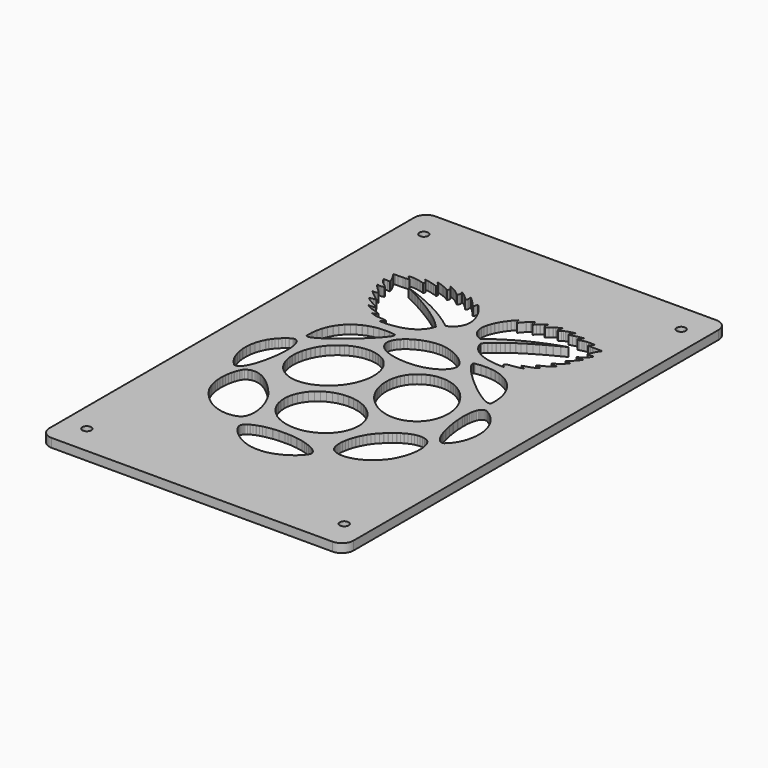
from build123d import *

# Parameters (mm, degrees)
F0_R     = 1.499796
F1_DEPTH = 3


with BuildPart() as f1:
    # F0 (on Top) → F1 (new body)
    with BuildSketch(Plane.XY):
        with BuildLine():
            Line((-48, -82), (48, -82))
            ThreePointArc((48, -82), (50.828427, -80.828427), (52, -78))
            Line((52, -78), (52, 78))
            ThreePointArc((52, 78), (50.828427, 80.828427), (48, 82))
            Line((48, 82), (-48, 82))
            ThreePointArc((-48, 82), (-50.828427, 80.828427), (-52, 78))
            Line((-52, 78), (-52, -78))
            ThreePointArc((-52, -78), (-50.828427, -80.828427), (-48, -82))
        make_face()
        with Locations((-44, -72)):
            Circle(F0_R, mode=Mode.SUBTRACT)
        Polygon((-13.309771, -44.983662), (-13.308247, -44.973756), (-13.271163, -44.756078), (-13.196741, -44.532812), (-13.192677, -44.524684), (-13.188359, -44.514778), (-13.082187, -44.305482), (-13.071265, -44.288972), (-12.933597, -44.083486), (-12.765449, -43.883588), (-12.750209, -43.866062), (-12.552851, -43.671498), (-12.535325, -43.654988), (-12.058313, -43.280084), (-12.037993, -43.263828), (-11.460397, -42.912038), (-11.410613, -42.882066), (-10.744879, -42.553898), (-10.687221, -42.52926), (-9.944525, -42.227254), (-9.878231, -42.203886), (-9.070765, -41.929566), (-8.206657, -41.685726), (-8.135029, -41.666422), (-7.228503, -41.454332), (-7.152557, -41.439092), (-5.252129, -41.116766), (-5.173897, -41.10559), (-5.095157, -41.097462), (-3.154851, -40.92525), (-3.076365, -40.920932), (-1.187113, -40.91255), (-1.080941, -40.91255), (-0.109391, -40.900104), (-0.069513, -40.901628), (0.914229, -40.940236), (1.019131, -40.949888), (3.051893, -41.173154), (3.158065, -41.189664), (5.186509, -41.587936), (5.288363, -41.612828), (6.265247, -41.870384), (6.334335, -41.889688), (7.268547, -42.183312), (7.332047, -42.206426), (8.208347, -42.5318), (9.014543, -42.885876), (9.072455, -42.912038), (9.791783, -43.292784), (9.842837, -43.321486), (10.462851, -43.726616), (10.504253, -43.756842), (11.011237, -44.1828), (11.027747, -44.19804), (11.234503, -44.418512), (11.248473, -44.435022), (11.421955, -44.659812), (11.432877, -44.675814), (11.570799, -44.903398), (11.579181, -44.920162), (11.679765, -45.152826), (11.682305, -45.160954), (11.744535, -45.39565), (11.745805, -45.403778), (11.747075, -45.413176), (11.769173, -45.650412), (11.769173, -45.666922), (11.751393, -45.855644), (11.749869, -45.864026), (11.699069, -46.069512), (11.693481, -46.087038), (11.609407, -46.309034), (11.599755, -46.328338), (11.483931, -46.56405), (11.471485, -46.584878), (11.149159, -47.091862), (11.132649, -47.11396), (10.698563, -47.657012), (10.677735, -47.680126), (10.139001, -48.24934), (10.090741, -48.2976), (9.455487, -48.87926), (9.399099, -48.927266), (8.675453, -49.507656), (8.610683, -49.554392), (7.810075, -50.123606), (6.938093, -50.666404), (6.865957, -50.7106), (5.933269, -51.216314), (5.854529, -51.256192), (4.870787, -51.712376), (4.786713, -51.74565), (3.758775, -52.139604), (2.696293, -52.45939), (2.609425, -52.484028), (1.519257, -52.715676), (1.429849, -52.730662), (0.323425, -52.862742), (0.266529, -52.86579), (-0.882313, -52.886364), (-0.932097, -52.886364), (-2.009819, -52.86579), (-2.059349, -52.861726), (-3.132753, -52.728122), (-3.182537, -52.72101), (-4.243749, -52.485298), (-4.293025, -52.474376), (-5.330869, -52.149256), (-5.427135, -52.117506), (-6.434753, -51.7139), (-6.525685, -51.671228), (-7.491647, -51.201328), (-8.410619, -50.674532), (-8.481231, -50.633384), (-9.341021, -50.0629), (-9.405791, -50.017434), (-10.199541, -49.4152), (-10.257453, -49.36694), (-10.973987, -48.744132), (-11.023771, -48.694348), (-11.654707, -48.061888), (-12.190647, -47.432222), (-12.232049, -47.382438), (-12.664865, -46.766488), (-12.695091, -46.718482), (-13.016147, -46.12717), (-13.027069, -46.105072), (-13.142893, -45.82237), (-13.151275, -45.800526), (-13.235349, -45.529), (-13.239413, -45.508426), (-13.290213, -45.248076), (-13.291737, -45.2369), align=None, mode=Mode.SUBTRACT)
        Polygon((-33.641201, 3.13359), (-33.630279, 3.136384), (-33.378057, 3.187184), (-33.366881, 3.188708), (-33.128629, 3.205218), (-33.117453, 3.205218), (-33.109325, 3.203694), (-32.881741, 3.18566), (-32.873613, 3.183374), (-32.660253, 3.130796), (-32.650347, 3.128002), (-32.642219, 3.125462), (-32.440797, 3.03961), (-32.432669, 3.0358), (-32.245471, 2.918706), (-32.236835, 2.914388), (-32.230231, 2.90753), (-32.053701, 2.76148), (-32.039985, 2.747764), (-31.875901, 2.571234), (-31.722993, 2.368796), (-31.710547, 2.350762), (-31.570085, 2.122162), (-31.558909, 2.101334), (-31.312275, 1.566918), (-31.294241, 1.518658), (-31.091803, 0.891786), (-31.078087, 0.833366), (-30.918321, 0.123944), (-30.799703, -0.658884), (-30.791575, -0.726194), (-30.712835, -1.572522), (-30.708771, -1.64542), (-30.668893, -2.547882), (-30.668893, -2.625098), (-30.666099, -3.573534), (-30.668893, -3.65456), (-30.767953, -5.648714), (-30.775065, -5.732788), (-31.003665, -7.796792), (-31.014841, -7.882644), (-31.027287, -7.967988), (-31.372981, -10.026912), (-31.389491, -10.109462), (-31.840087, -12.089392), (-31.859391, -12.169656), (-31.881743, -12.245348), (-32.426065, -14.071354), (-32.449179, -14.141712), (-32.752201, -14.972292), (-32.778871, -15.035792), (-33.099927, -15.800586), (-33.438763, -16.489688), (-33.466449, -16.544806), (-33.820525, -17.14831), (-33.850751, -17.193776), (-34.218797, -17.702538), (-34.234037, -17.720064), (-34.615799, -18.125448), (-34.630785, -18.140688), (-34.826365, -18.301978), (-34.841351, -18.31417), (-35.038709, -18.445234), (-35.055219, -18.454632), (-35.254863, -18.5542), (-35.262991, -18.55801), (-35.474065, -18.628622), (-35.482447, -18.629638), (-35.686409, -18.665706), (-35.694537, -18.666976), (-35.908151, -18.666976), (-35.916279, -18.665706), (-36.124559, -18.631162), (-36.132687, -18.629638), (-36.342237, -18.559534), (-36.350619, -18.555216), (-36.393291, -18.516862), (-37.233523, -17.714984), (-37.272385, -17.667994), (-38.033115, -16.711684), (-38.068929, -16.659106), (-38.735679, -15.567922), (-38.768953, -15.511534), (-39.332579, -14.302748), (-39.360265, -14.242042), (-39.383379, -14.175748), (-39.832959, -12.87222), (-39.850485, -12.80491), (-40.173065, -11.424166), (-40.187035, -11.353554), (-40.372963, -9.916422), (-40.378297, -9.862828), (-40.379821, -9.809234), (-40.418429, -8.33451), (-40.417159, -8.279392), (-40.295747, -6.788412), (-40.291429, -6.733294), (-40.282031, -6.678176), (-39.989931, -5.189736), (-39.977485, -5.134872), (-39.962499, -5.0795), (-39.486757, -3.611888), (-39.466437, -3.558294), (-38.799179, -2.133354), (-38.774541, -2.079506), (-38.745585, -2.028706), (-38.335121, -1.338334), (-38.301847, -1.287026), (-37.838551, -0.614688), (-37.323185, 0.0386), (-37.284831, 0.086606), (-36.712823, 0.717796), (-36.670151, 0.763262), (-36.042009, 1.36956), (-35.992225, 1.412486), (-35.306171, 1.991352), (-35.252069, 2.0325), (-34.506579, 2.579616), (-34.472035, 2.602984), align=None, mode=Mode.SUBTRACT)
        Polygon((-30.970899, -36.225742), (-31.006459, -36.184594), (-31.043797, -36.140398), (-32.020681, -34.86735), (-32.056749, -34.81909), (-32.085451, -34.776164), (-32.706735, -33.825442), (-32.731881, -33.779976), (-33.245723, -32.772612), (-33.266297, -32.726892), (-33.678285, -31.674316), (-33.696319, -31.627326), (-34.012041, -30.54427), (-34.039473, -30.44521), (-34.264009, -29.34285), (-34.280519, -29.242012), (-34.422759, -28.135588), (-34.428093, -28.04872), (-34.492863, -26.947884), (-34.485751, -25.867114), (-34.484481, -25.783294), (-34.414377, -24.734528), (-34.406249, -24.653248), (-34.276709, -23.649948), (-34.262993, -23.575526), (-34.080875, -22.628614), (-33.853291, -21.755362), (-33.835765, -21.68602), (-33.568303, -20.895064), (-33.545951, -20.835882), (-33.245723, -20.1417), (-33.219815, -20.091916), (-32.891647, -19.504922), (-32.877931, -19.485364), (-32.528935, -19.021306), (-32.515219, -19.003272), (-32.486263, -18.983714), (-31.870313, -18.571726), (-31.841357, -18.556486), (-31.521825, -18.399514), (-31.193657, -18.273022), (-31.163431, -18.261592), (-30.828659, -18.16685), (-30.798179, -18.159738), (-30.456549, -18.093698), (-30.425053, -18.090904), (-29.720965, -18.046962), (-29.687691, -18.048232), (-28.961251, -18.114272), (-28.928231, -18.11859), (-28.179947, -18.290548), (-28.145657, -18.299184), (-28.086475, -18.320012), (-27.320157, -18.591284), (-26.538853, -18.955012), (-26.476877, -18.985238), (-25.683127, -19.437104), (-25.620897, -19.475966), (-24.817749, -20.009366), (-24.754249, -20.055848), (-23.944243, -20.66367), (-23.129665, -21.34185), (-23.066165, -21.395444), (-22.250571, -22.13687), (-22.187071, -22.196306), (-21.372493, -22.995136), (-21.309247, -23.06016), (-19.695585, -24.80895), (-19.632085, -24.877784), (-19.596271, -24.920456), (-18.900565, -25.759672), (-18.866021, -25.806662), (-18.212479, -26.72157), (-18.150757, -26.820884), (-17.548777, -27.799292), (-16.998613, -28.82596), (-16.946543, -28.933148), (-16.455815, -29.99436), (-16.027063, -31.07767), (-15.985915, -31.189176), (-15.625997, -32.279344), (-15.604153, -32.3591), (-15.316371, -33.443934), (-15.301131, -33.520642), (-15.090057, -34.586172), (-14.963565, -35.616904), (-14.953659, -35.691326), (-14.912257, -36.675322), (-14.910987, -36.74695), (-14.960771, -37.668716), (-14.967375, -37.73501), (-15.113425, -38.582354), (-15.128665, -38.640266), (-15.375299, -39.399472), (-15.384951, -39.425888), (-15.547765, -39.768788), (-15.561481, -39.79241), (-15.750203, -40.107878), (-15.765443, -40.128706), (-15.983121, -40.414964), (-15.992519, -40.426394), (-16.244741, -40.689538), (-16.273697, -40.706048), (-16.840371, -41.03955), (-16.872121, -41.054536), (-17.530743, -41.330126), (-17.565287, -41.342572), (-18.304935, -41.553392), (-18.343797, -41.563044), (-19.155327, -41.70376), (-19.197999, -41.709094), (-20.073029, -41.77107), (-20.117225, -41.773864), (-20.164215, -41.773864), (-21.094109, -41.749226), (-21.142369, -41.745162), (-22.118237, -41.629338), (-22.191135, -41.615622), (-23.204087, -41.39896), (-23.279779, -41.375592), (-24.318893, -41.051742), (-25.375787, -40.613592), (-25.454273, -40.581842), (-26.520819, -40.022534), (-26.598035, -39.979862), (-27.665851, -39.292284), (-27.743321, -39.236912), (-28.801485, -38.412936), (-28.878701, -38.348166), (-29.919085, -37.380934), (-29.956677, -37.343342), align=None, mode=Mode.SUBTRACT)
        Polygon((7.960443, -17.207492), (7.992193, -17.240766), (9.058739, -18.348714), (9.084901, -18.385798), (9.983299, -19.611094), (10.005397, -19.650972), (10.719137, -20.972534), (10.735647, -21.015206), (11.255331, -22.409666), (11.264983, -22.453862), (11.579181, -23.899376), (11.583245, -23.943572), (11.687893, -25.413978), (11.685099, -25.45792), (11.579181, -26.92985), (11.570799, -26.972522), (11.255331, -28.41829), (11.238567, -28.460962), (10.719137, -29.855422), (10.698563, -29.8953), (9.983299, -31.216862), (9.955867, -31.2542), (9.058739, -32.478988), (9.025465, -32.512262), (7.960443, -33.621734), (7.922851, -33.650436), (6.708985, -34.621732), (6.667837, -34.646878), (5.323923, -35.465266), (5.279981, -35.48457), (3.830403, -36.136334), (3.784937, -36.15132), (2.253825, -36.624014), (2.206835, -36.63392), (0.620859, -36.920432), (0.572853, -36.923226), (-1.041063, -37.019492), (-1.089069, -37.017206), (-2.701715, -36.920432), (-2.749721, -36.912304), (-4.334681, -36.624014), (-4.381163, -36.610298), (-5.910751, -36.136334), (-5.954947, -36.117284), (-7.404779, -35.465266), (-7.444657, -35.440628), (-8.789841, -34.621732), (-8.825401, -34.592776), (-10.040791, -33.621734), (-10.072541, -33.586936), (-11.139341, -32.478988), (-11.165503, -32.443428), (-12.063901, -31.216862), (-12.085999, -31.176984), (-12.799993, -29.855422), (-12.816503, -29.81402), (-13.335679, -28.41829), (-13.345585, -28.37511), (-13.661053, -26.92985), (-13.663847, -26.884384), (-13.770019, -25.413978), (-13.765701, -25.369782), (-13.661053, -23.899376), (-13.651401, -23.855434), (-13.335679, -22.409666), (-13.319169, -22.368264), (-12.799993, -20.972534), (-12.779165, -20.932656), (-12.063901, -19.611094), (-12.036469, -19.575026), (-11.139341, -18.348714), (-11.106321, -18.315694), (-10.040791, -17.207492), (-10.005231, -17.17879), (-8.789841, -16.20724), (-8.748185, -16.182348), (-7.404779, -15.36396), (-7.360837, -15.343132), (-5.910751, -14.691114), (-5.865285, -14.677398), (-4.334681, -14.203688), (-4.287691, -14.195306), (-2.701715, -13.90727), (-2.653201, -13.904476), (-1.041063, -13.807956), (-0.991279, -13.81075), (0.620859, -13.90727), (0.669119, -13.916922), (2.253825, -14.203688), (2.300815, -14.218928), (3.830403, -14.691114), (3.874599, -14.711942), (5.323923, -15.36396), (5.364309, -15.387328), (6.708985, -16.20724), (6.745053, -16.235942), align=None, mode=Mode.SUBTRACT)
        Polygon((-22.050419, -14.177272), (-23.024763, -13.586214), (-23.070229, -13.55167), (-23.939925, -12.90397), (-23.982597, -12.866632), (-24.755519, -12.128254), (-24.792857, -12.087106), (-25.471037, -11.265416), (-25.503803, -11.220204), (-26.084193, -10.325616), (-26.113149, -10.27761), (-26.593971, -9.315712), (-26.618863, -9.264912), (-27.000625, -8.244848), (-27.019675, -8.191254), (-27.036185, -8.135882), (-27.317363, -7.068066), (-27.331079, -6.989326), (-27.511673, -5.880362), (-27.590159, -4.738886), (-27.595747, -4.65659), (-27.571109, -3.492), (-27.568315, -3.407926), (-27.438775, -2.226826), (-27.427853, -2.143006), (-27.193157, -0.955048), (-27.172837, -0.869704), (-26.833747, 0.316984), (-26.803521, 0.401058), (-26.356735, 1.57784), (-26.319651, 1.661914), (-25.765931, 2.820662), (-25.737991, 2.866128), (-25.054731, 4.035036), (-25.010535, 4.095488), (-24.255393, 5.129014), (-24.207387, 5.183878), (-23.379093, 6.13206), (-23.326769, 6.183368), (-22.434975, 7.040364), (-22.381381, 7.08583), (-21.433199, 7.850624), (-21.376557, 7.891772), (-20.381893, 8.561824), (-20.322457, 8.597384), (-19.287407, 9.170662), (-19.226701, 9.199618), (-18.161679, 9.673836), (-18.098179, 9.698474), (-17.011059, 10.069314), (-16.937907, 10.089888), (-15.835547, 10.35608), (-15.762649, 10.369796), (-14.653431, 10.528038), (-14.580279, 10.53388), (-13.470807, 10.583156), (-13.399179, 10.581886), (-12.299613, 10.51864), (-12.229509, 10.508734), (-11.147469, 10.330934), (-11.077365, 10.313408), (-10.020471, 10.018514), (-9.954177, 9.991844), (-8.931573, 9.57884), (-8.897029, 9.559536), (-7.885601, 9.006578), (-7.838865, 8.972288), (-6.969169, 8.326112), (-6.928021, 8.288774), (-6.153575, 7.550396), (-6.116237, 7.50874), (-5.438565, 6.687558), (-5.405291, 6.641838), (-4.824901, 5.746234), (-4.796199, 5.698228), (-4.315123, 4.7376), (-4.290485, 4.686546), (-3.908977, 3.66699), (-3.888149, 3.612888), (-3.872909, 3.558024), (-3.591731, 2.488684), (-3.578015, 2.409944), (-3.397421, 1.30098), (-3.318935, 0.159758), (-3.313347, 0.078478), (-3.337985, -1.087382), (-3.340779, -1.171456), (-3.469049, -2.352556), (-3.481749, -2.436376), (-3.714413, -3.624334), (-3.734987, -3.709678), (-4.074077, -4.896366), (-4.102779, -4.98044), (-4.549565, -6.157222), (-4.587919, -6.241042), (-5.142147, -7.400044), (-5.168309, -7.44551), (-5.850299, -8.612894), (-5.898559, -8.67741), (-6.692309, -9.748528), (-6.743363, -9.80771), (-7.604677, -10.787388), (-7.659541, -10.840982), (-8.579021, -11.724394), (-8.636679, -11.772654), (-9.605435, -12.559292), (-9.666141, -12.601964), (-10.679093, -13.29005), (-10.741069, -13.32561), (-11.787041, -13.911334), (-11.851557, -13.94156), (-12.923691, -14.42289), (-12.989985, -14.446004), (-14.080153, -14.821162), (-14.150257, -14.838688), (-15.251347, -15.103356), (-15.321451, -15.114532), (-16.424065, -15.265916), (-16.494169, -15.270234), (-17.591449, -15.307064), (-17.660029, -15.303254), (-18.743085, -15.223244), (-18.810903, -15.210798), (-19.870591, -15.011154), (-19.936631, -14.99185), (-20.966093, -14.670794), (-21.029593, -14.641838), (-22.020193, -14.195306), align=None, mode=Mode.SUBTRACT)
        with Locations((44, -72)):
            Circle(F0_R, mode=Mode.SUBTRACT)
        Polygon((14.665789, -39.618928), (14.649279, -39.592512), (14.635563, -39.563556), (14.337875, -38.894012), (14.328223, -38.862262), (14.125785, -38.105342), (14.118673, -38.071306), (14.009961, -37.241488), (14.003103, -37.167066), (13.982275, -36.27705), (13.985069, -36.201104), (14.047045, -35.262828), (14.189031, -34.289754), (14.200207, -34.211014), (14.416361, -33.214826), (14.435665, -33.1338), (14.722431, -32.127706), (14.749863, -32.046426), (15.101399, -31.04465), (15.135689, -30.96464), (15.549201, -29.97785), (16.021895, -29.019), (16.060503, -28.943054), (16.585521, -28.025098), (16.629717, -27.954994), (17.202741, -27.090886), (17.233221, -27.051262), (17.869745, -26.230842), (17.893367, -26.204934), (17.926387, -26.16785), (18.696668, -25.314664), (19.487624, -24.509738), (19.54551, -24.450556), (20.353053, -23.699732), (20.413657, -23.647154), (21.23362, -22.952464), (21.294224, -22.904712), (22.123814, -22.274538), (22.184469, -22.231866), (23.018173, -21.66697), (23.853249, -21.173448), (23.913879, -21.137888), (24.744865, -20.718788), (24.805495, -20.689832), (25.629547, -20.350742), (25.690202, -20.328898), (26.501859, -20.075406), (26.541788, -20.064484), (27.338332, -19.897606), (27.378261, -19.890748), (28.154129, -19.81785), (28.194058, -19.815056), (28.231294, -19.815056), (28.983693, -19.83817), (29.020904, -19.844012), (29.745769, -19.969234), (29.781558, -19.977616), (30.474749, -20.20901), (30.509166, -20.222726), (31.166493, -20.56461), (31.199589, -20.582644), (31.206473, -20.587978), (31.217471, -20.5989), (31.411781, -20.769842), (31.596464, -20.965676), (31.612974, -20.984726), (31.949245, -21.43964), (31.963012, -21.461738), (32.253765, -21.998948), (32.267558, -22.02511), (32.508705, -22.640044), (32.530778, -22.697956), (32.720948, -23.38274), (32.736086, -23.45132), (32.872535, -24.201128), (32.952443, -25.011388), (32.957955, -25.074888), (32.978605, -25.937472), (32.978605, -26.00529), (32.937279, -26.916134), (32.930396, -26.987762), (32.824275, -27.939754), (32.810508, -28.0157), (32.636874, -29.002236), (32.390214, -30.019506), (32.370936, -30.097738), (32.052572, -31.138122), (32.025013, -31.219656), (31.629535, -32.27782), (31.595093, -32.36037), (31.121027, -33.431234), (31.094865, -33.480764), (30.521587, -34.590236), (30.471981, -34.6578), (29.573507, -35.862014), (29.522529, -35.92272), (28.58819, -36.987742), (28.53584, -37.041844), (27.572571, -37.974532), (27.51885, -38.021522), (26.536302, -38.826194), (26.481184, -38.86785), (25.487637, -39.54984), (25.432494, -39.584384), (24.436179, -40.15055), (24.381035, -40.180776), (23.390232, -40.63569), (23.335114, -40.659312), (22.358103, -41.00907), (22.291962, -41.032438), (21.336947, -41.28339), (21.270805, -41.298376), (20.347515, -41.454332), (20.285539, -41.46246), (19.400832, -41.52977), (19.340202, -41.532564), (18.503729, -41.517578), (18.448611, -41.512244), (17.667307, -41.419788), (17.617523, -41.410136), (16.900989, -41.246306), (16.855523, -41.231066), (16.212141, -41.000688), (16.190043, -40.99129), (15.611177, -40.691062), (15.603049, -40.68522), (15.587809, -40.671504), (15.323141, -40.45789), (15.083365, -40.212526), (15.064061, -40.190682), (14.851971, -39.917632), align=None, mode=Mode.SUBTRACT)
        Polygon((25.560662, -1.648214), (25.811436, -2.836172), (25.821114, -2.9078), (25.963024, -4.0889), (25.965792, -4.159004), (25.997491, -5.324864), (25.994748, -5.393698), (25.918929, -6.534666), (25.909303, -6.606294), (25.725991, -7.714242), (25.708109, -7.783076), (25.418702, -8.8514), (25.395283, -8.91744), (24.999779, -9.935726), (24.969477, -9.997956), (24.470596, -10.9596), (24.432039, -11.017512), (23.82983, -11.911592), (23.785736, -11.965694), (23.080174, -12.785606), (23.029197, -12.833866), (22.223051, -13.571228), (22.192724, -13.593072), (21.257039, -14.260076), (21.208829, -14.287762), (20.264864, -14.824972), (20.213835, -14.848594), (19.223032, -15.262106), (19.170683, -15.279632), (18.141271, -15.574526), (18.086153, -15.586972), (17.027735, -15.764772), (16.971347, -15.771884), (15.889561, -15.835384), (15.833173, -15.83767), (15.776531, -15.835384), (14.679759, -15.7856), (14.621847, -15.778488), (13.520757, -15.618722), (13.440747, -15.600688), (12.341181, -15.335004), (12.262695, -15.308588), (11.172527, -14.938256), (10.099123, -14.464038), (10.023177, -14.429494), (8.975935, -13.856216), (8.902783, -13.81202), (7.890085, -13.142476), (7.818457, -13.091422), (6.849701, -12.325104), (6.782137, -12.267192), (5.863165, -11.408926), (5.799665, -11.342632), (4.939621, -10.396228), (4.906601, -10.354572), (4.087959, -9.286756), (4.045287, -9.219192), (3.343993, -8.086606), (3.309449, -8.017264), (2.720931, -6.858516), (2.691975, -6.786888), (2.218265, -5.610106), (2.195913, -5.539748), (1.833709, -4.353314), (1.818469, -4.28194), (1.566247, -3.093728), (1.556849, -3.0221), (1.415879, -1.841254), (1.411815, -1.770642), (1.380319, -0.60656), (1.382859, -0.535948), (1.460075, 0.604766), (1.469981, 0.675124), (1.653115, 1.784596), (1.669625, 1.85343), (1.958931, 2.921246), (1.983823, 2.986016), (2.378031, 4.00608), (2.409781, 4.066786), (2.908637, 5.02843), (2.945721, 5.086088), (3.549225, 5.980422), (3.593421, 6.034524), (4.298779, 6.854436), (4.350087, 6.902696), (5.156029, 7.63955), (5.184985, 7.661902), (6.120721, 8.328906), (6.173299, 8.358878), (7.154247, 8.93368), (7.207841, 8.958572), (8.230699, 9.40485), (8.287087, 9.424408), (9.342457, 9.746734), (9.400369, 9.76045), (10.482155, 9.960602), (10.541337, 9.96873), (11.639633, 10.04874), (11.699069, 10.05128), (12.808287, 10.014196), (12.867469, 10.011402), (13.978211, 9.85951), (14.037393, 9.851636), (15.140007, 9.588238), (15.218493, 9.568934), (16.305867, 9.195808), (16.382829, 9.167868), (17.446835, 8.687046), (17.521257, 8.652756), (18.556079, 8.066778), (18.627732, 8.022836), (19.621329, 7.335258), (19.690214, 7.282934), (20.636923, 6.495788), (20.701693, 6.435336), (21.593284, 5.550908), (21.652542, 5.48309), (22.480734, 4.504936), (22.50969, 4.462264), (23.289648, 3.35838), (23.332371, 3.289038), (24.033792, 2.157722), (24.069606, 2.087618), (24.656651, 0.928616), (24.685581, 0.858512), (25.159647, -0.31827), (25.181694, -0.389898), (25.544101, -1.57684), align=None, mode=Mode.SUBTRACT)
        Polygon((39.735158, -7.130042), (39.867441, -8.629404), (39.870209, -8.684522), (39.868838, -8.74091), (39.839907, -10.225032), (39.835742, -10.28015), (39.653852, -11.728712), (39.645597, -11.782306), (39.634548, -11.834884), (39.312095, -13.22782), (39.298303, -13.27862), (39.281768, -13.328404), (38.827031, -14.644632), (38.807753, -14.691114), (38.233103, -15.910822), (38.211056, -15.956288), (38.18624, -15.997436), (37.499958, -17.099034), (37.473796, -17.138912), (37.443468, -17.174472), (36.657973, -18.137894), (36.626299, -18.170914), (35.751244, -18.974316), (35.718173, -19.003272), (35.708521, -19.007336), (35.500444, -19.077694), (35.492164, -19.080488), (35.284087, -19.114778), (35.275832, -19.116048), (35.267552, -19.116048), (35.060846, -19.114778), (35.052566, -19.114778), (34.848629, -19.078964), (34.840374, -19.077694), (34.629504, -19.007336), (34.621249, -19.003272), (34.421452, -18.904212), (34.404891, -18.894306), (34.207838, -18.763242), (34.191303, -18.749526), (33.997018, -18.58976), (33.980483, -18.57452), (33.600143, -18.169644), (33.584979, -18.15034), (33.215638, -17.643356), (33.185336, -17.596366), (32.831184, -16.992862), (32.803599, -16.93622), (32.464611, -16.248388), (32.143529, -15.483594), (32.117342, -15.419078), (31.814193, -14.587736), (31.789377, -14.516362), (31.246452, -12.691626), (31.224405, -12.614664), (31.205101, -12.534654), (30.754454, -10.555994), (30.737944, -10.471666), (30.392047, -8.412742), (30.378255, -8.327398), (30.368628, -8.242054), (30.139876, -6.17805), (30.132967, -6.093722), (30.03378, -4.099822), (30.031011, -4.018288), (30.03378, -3.071884), (30.035152, -2.994414), (30.075106, -2.092206), (30.079246, -2.02007), (30.157783, -1.172726), (30.166063, -1.107956), (30.284554, -0.324112), (30.444396, 0.384294), (30.458189, 0.442206), (30.660754, 1.069078), (30.678686, 1.116068), (30.925345, 1.650738), (30.936394, 1.671312), (31.076933, 1.900166), (31.089353, 1.9182), (31.242312, 2.120638), (31.406294, 2.295644), (31.420087, 2.309614), (31.596464, 2.456934), (31.603348, 2.462522), (31.611603, 2.467856), (31.799029, 2.58368), (31.807284, 2.587744), (32.008478, 2.673088), (32.025013, 2.67893), (32.238627, 2.731), (32.248254, 2.732524), (32.474263, 2.751828), (32.483915, 2.753352), (32.493541, 2.751828), (32.733343, 2.736588), (32.745738, 2.735318), (33.006215, 2.681724), (33.031005, 2.666484), (33.084726, 2.63194), (33.892269, 2.134608), (34.639181, 1.602478), (34.708066, 1.54736), (35.397092, 0.983734), (36.029628, 0.390136), (36.088835, 0.3307), (36.664907, -0.290838), (37.185785, -0.935744), (37.236763, -0.999244), (37.705317, -1.665994), (37.748039, -1.733812), (38.164193, -2.419866), (38.198635, -2.48997), (38.879381, -3.9111), (38.905568, -3.982728), (39.393375, -5.45034), (39.412679, -5.523238), (39.718622, -7.017012), (39.728249, -7.073654), align=None, mode=Mode.SUBTRACT)
        Polygon((-19.671963, 14.317718), (-19.778135, 14.223738), (-21.471807, 12.733012), (-23.206881, 11.291562), (-23.314069, 11.203424), (-23.350137, 11.174468), (-25.064129, 9.83919), (-25.135757, 9.784072), (-25.965575, 9.173456), (-26.032885, 9.123672), (-26.833747, 8.561824), (-26.898771, 8.517628), (-27.663565, 8.008866), (-27.722493, 7.970512), (-28.442075, 7.52398), (-29.108825, 7.146536), (-29.162927, 7.116056), (-29.768971, 6.813034), (-29.815707, 6.790936), (-30.354441, 6.570464), (-30.375269, 6.563606), (-30.835771, 6.432796), (-30.854821, 6.428478), (-31.053449, 6.398252), (-31.069959, 6.396728), (-31.247759, 6.392664), (-31.254363, 6.392664), (-31.334373, 6.399522), (-31.341231, 6.401046), (-31.415653, 6.414762), (-31.421241, 6.416286), (-31.490075, 6.436606), (-31.494393, 6.43813), (-31.557893, 6.465562), (-31.612757, 6.500106), (-31.617075, 6.5029), (-31.666351, 6.544302), (-31.670669, 6.548366), (-31.713341, 6.596372), (-31.716135, 6.60196), (-31.753219, 6.657078), (-31.782175, 6.720578), (-31.784969, 6.726166), (-31.807321, 6.796524), (-31.809607, 6.801858), (-31.824847, 6.880344), (-31.824847, 6.884662), (-31.834753, 6.974324), (-31.830435, 7.08583), (-31.779381, 8.905994), (-31.765665, 9.012166), (-31.539859, 10.725396), (-31.514713, 10.823186), (-31.122029, 12.424402), (-31.089009, 12.515334), (-30.539353, 14.00098), (-30.496681, 14.0848), (-29.797927, 15.449034), (-29.746873, 15.52625), (-28.909181, 16.767802), (-28.849999, 16.83689), (-27.882513, 17.951696), (-27.816219, 18.013672), (-26.726051, 18.997668), (-26.651629, 19.051262), (-25.451479, 19.90013), (-25.370453, 19.945596), (-24.065147, 20.656796), (-23.978279, 20.692356), (-22.579501, 21.261824), (-22.487553, 21.287986), (-21.004701, 21.710896), (-20.906657, 21.72893), (-19.346843, 22.002996), (-19.244735, 22.010108), (-17.618881, 22.131266), (-17.512709, 22.128472), (-15.828943, 22.091134), (-14.095393, 21.894284), (-13.986427, 21.881838), (-13.983379, 21.881838), (-13.980585, 21.880568), (-13.905147, 21.867868), (-13.837329, 21.848818), (-13.831741, 21.847294), (-13.773829, 21.821386), (-13.770019, 21.818338), (-13.718965, 21.788112), (-13.676293, 21.750774), (-13.673499, 21.748234), (-13.655465, 21.727406), (-13.639209, 21.705562), (-13.636415, 21.701244), (-13.610253, 21.652984), (-13.607459, 21.648666), (-13.589425, 21.595072), (-13.576979, 21.53589), (-13.576979, 21.531572), (-13.572915, 21.467056), (-13.572915, 21.461468), (-13.575709, 21.392634), (-13.576979, 21.385522), (-13.587901, 21.3111), (-13.589425, 21.305766), (-13.632097, 21.141936), (-13.636415, 21.126696), (-13.706519, 20.944578), (-13.714647, 20.928068), (-13.932579, 20.510746), (-13.943501, 20.491188), (-14.258969, 20.010366), (-14.287925, 19.967694), (-14.693309, 19.427436), (-14.733187, 19.37943), (-15.219597, 18.789388), (-15.779159, 18.155658), (-15.827419, 18.103334), (-16.453021, 17.432012), (-16.507885, 17.375624), (-17.191653, 16.6756), (-17.252359, 16.616418), (-17.986673, 15.892772), (-18.051443, 15.832066), (-19.638943, 14.347944), align=None, mode=Mode.SUBTRACT)
        Polygon((10.365061, 16.007072), (10.019113, 15.46148), (9.999809, 15.436588), (9.562929, 14.906236), (9.513399, 14.857722), (8.989651, 14.347944), (8.381829, 13.861534), (8.333823, 13.825974), (7.644721, 13.36979), (7.589603, 13.336516), (6.823285, 12.916146), (6.760293, 12.886174), (5.921077, 12.505428), (5.851735, 12.48079), (4.940891, 12.144494), (3.964007, 11.857728), (3.888315, 11.837408), (2.847931, 11.607284), (2.765127, 11.590774), (1.665307, 11.419578), (1.578693, 11.41018), (0.419691, 11.304008), (0.366097, 11.30096), (-0.882313, 11.26413), (-0.921175, 11.26413), (-0.979087, 11.2654), (-2.224703, 11.293086), (-3.408597, 11.372588), (-3.498259, 11.381224), (-4.616875, 11.510764), (-4.701203, 11.522956), (-5.752509, 11.70228), (-5.829725, 11.71879), (-6.810927, 11.94358), (-7.720247, 12.212058), (-7.790351, 12.232886), (-8.624487, 12.54429), (-8.687479, 12.568928), (-9.444399, 12.91894), (-9.499263, 12.947896), (-10.177443, 13.335246), (-10.224179, 13.368266), (-10.819301, 13.789906), (-10.844447, 13.810734), (-11.354225, 14.266918), (-11.375053, 14.288762), (-11.799487, 14.775172), (-11.817521, 14.79854), (-12.166009, 15.337528), (-12.176931, 15.362166), (-12.418231, 15.903694), (-12.426359, 15.929856), (-12.573679, 16.49653), (-12.577997, 16.522438), (-12.627273, 17.110956), (-12.630321, 17.138388), (-12.628797, 17.148294), (-12.627273, 17.167344), (-12.609747, 17.506434), (-12.557169, 17.845524), (-12.550565, 17.87448), (-12.464713, 18.212046), (-12.346603, 18.546818), (-12.335427, 18.575774), (-12.321457, 18.60473), (-11.994813, 19.266146), (-11.977287, 19.295102), (-11.537613, 19.940262), (-11.516785, 19.967694), (-10.976781, 20.591772), (-10.925727, 20.645874), (-10.295807, 21.24379), (-10.239419, 21.289256), (-9.531013, 21.855422), (-8.753773, 22.383234), (-8.690527, 22.425906), (-7.855375, 22.91257), (-7.788065, 22.949654), (-6.907447, 23.388058), (-6.834549, 23.421078), (-5.917863, 23.805634), (-5.842171, 23.831796), (-4.902371, 24.15971), (-3.947331, 24.424378), (-3.870115, 24.443428), (-2.912281, 24.637738), (-2.836843, 24.650184), (-1.887137, 24.771596), (-1.841671, 24.77439), (-0.882313, 24.817062), (-0.833037, 24.815538), (0.203537, 24.767278), (0.252813, 24.761944), (1.280751, 24.622752), (1.379049, 24.603448), (2.390223, 24.381452), (3.377013, 24.089352), (3.472009, 24.057602), (4.425525, 23.700732), (4.515187, 23.662124), (5.428825, 23.250136), (6.294203, 22.793952), (6.358973, 22.758138), (7.167963, 22.264616), (7.225875, 22.226262), (7.969841, 21.705562), (8.022419, 21.66543), (8.693487, 21.125172), (9.284545, 20.576786), (9.328741, 20.535384), (9.830391, 19.986744), (9.866205, 19.945596), (10.269811, 19.405338), (10.297497, 19.365714), (10.595185, 18.843236), (10.604837, 18.824186), (10.712279, 18.571964), (10.719137, 18.552406), (10.797623, 18.308566), (10.801941, 18.290786), (10.848677, 18.056344), (10.850201, 18.045422), (10.866711, 17.813774), (10.866711, 17.805646), (10.865187, 17.787612), (10.851471, 17.507958), (10.812863, 17.22805), (10.807275, 17.200618), (10.654367, 16.641056), (10.644715, 16.614894), (10.394017, 16.05965), (10.381571, 16.033234), align=None, mode=Mode.SUBTRACT)
        Polygon((-22.870585, 51.673574), (-22.885825, 51.687367), (-23.868297, 52.595493), (-23.895729, 52.620283), (-23.858391, 52.610657), (-22.991743, 52.383301), (-22.958977, 52.373624), (-22.211709, 52.146268), (-22.153797, 52.128336), (-21.508891, 51.899609), (-21.461901, 51.881677), (-20.901577, 51.654321), (-20.862715, 51.636389), (-19.928503, 51.180256), (-19.885831, 51.158208), (-19.061601, 50.688308), (-19.053219, 50.699307), (-18.918091, 50.848151), (-18.817507, 50.992854), (-18.810903, 51.002481), (-18.809379, 51.006621), (-18.741815, 51.148582), (-18.739275, 51.152697), (-18.717177, 51.221607), (-18.715653, 51.225722), (-18.700413, 51.293235), (-18.699143, 51.298747), (-18.691015, 51.366311), (-18.691015, 51.371822), (-18.688221, 51.437964), (-18.688221, 51.444822), (-18.700413, 51.574362), (-18.701937, 51.581245), (-18.734957, 51.708042), (-18.787281, 51.838954), (-18.792869, 51.851374), (-18.934601, 52.092497), (-18.943237, 52.104917), (-19.118243, 52.339207), (-19.130435, 52.35432), (-19.486035, 52.810478), (-19.504069, 52.833897), (-19.483241, 52.825642), (-19.458603, 52.817362), (-18.795663, 52.572074), (-18.201557, 52.296484), (-18.161679, 52.278552), (-18.112149, 52.248249), (-17.091069, 51.632274), (-17.046873, 51.600549), (-16.181749, 50.947388), (-16.154063, 50.925341), (-15.365647, 50.292805), (-15.328563, 50.262477), (-15.316371, 50.274873), (-15.021477, 50.586302), (-15.010047, 50.60012), (-14.892953, 50.773754), (-14.889143, 50.782009), (-14.843677, 50.87571), (-14.840629, 50.88399), (-14.804815, 50.984574), (-14.782971, 51.093438), (-14.781447, 51.101719), (-14.772049, 51.217467), (-14.772049, 51.228465), (-14.777129, 51.352518), (-14.778653, 51.363517), (-14.802021, 51.497197), (-14.843677, 51.643272), (-14.845963, 51.654321), (-14.906669, 51.811395), (-14.913781, 51.825162), (-15.099709, 52.176571), (-15.108091, 52.191734), (-15.048909, 52.154523), (-14.067453, 51.545457), (-14.019447, 51.506849), (-13.214521, 50.878453), (-13.170325, 50.838524), (-12.484271, 50.172892), (-12.463697, 50.149473), (-11.814473, 49.405354), (-11.808885, 49.409495), (-11.804821, 49.412238), (-11.664359, 49.492172), (-11.550059, 49.58036), (-11.541677, 49.587244), (-11.538629, 49.589987), (-11.449475, 49.686456), (-11.446681, 49.689199), (-11.443887, 49.693365), (-11.375053, 49.795321), (-11.373529, 49.799435), (-11.323999, 49.9083), (-11.322475, 49.913837), (-11.319681, 49.919349), (-11.288185, 50.033725), (-11.286915, 50.039237), (-11.270151, 50.157753), (-11.268881, 50.163265), (-11.263293, 50.284525), (-11.263293, 50.29692), (-11.264563, 50.30934), (-11.267357, 50.32585), (-11.369465, 51.309796), (-11.372259, 51.333214), (-11.325269, 51.291863), (-10.341273, 50.415436), (-10.300125, 50.375507), (-9.473101, 49.536266), (-9.413919, 49.472868), (-7.917351, 47.757225), (-7.860963, 47.691058), (-7.856899, 47.691058), (-7.847247, 47.692455), (-7.837341, 47.692455), (-7.818291, 47.697941), (-7.798987, 47.706247), (-7.779429, 47.718617), (-7.775619, 47.72136), (-7.756315, 47.736549), (-7.736757, 47.754456), (-7.733963, 47.757225), (-7.695609, 47.804062), (-7.691291, 47.808177), (-7.614075, 47.936345), (-7.607471, 47.950138), (-7.530001, 48.118235), (-7.523397, 48.137539), (-7.368965, 48.58402), (-7.366171, 48.593697), (-7.360837, 48.611604), (-7.203357, 49.190369), (-7.167797, 49.155901), (-6.533813, 48.534414), (-6.497999, 48.493063), (-5.854363, 47.772388), (-5.818803, 47.726872), (-5.184819, 46.919355), (-5.148751, 46.869774), (-4.542453, 45.990578), (-4.509687, 45.938178), (-3.948601, 45.002518), (-3.918375, 44.947375), (-3.423837, 43.966224), (-3.397421, 43.909709), (-2.983909, 42.89823), (-2.963335, 42.840369), (-2.653201, 41.812355), (-2.635421, 41.743444), (-2.446699, 40.714033), (-2.438571, 40.645148), (-2.390057, 39.626786), (-2.392851, 39.559248), (-2.501563, 38.565701), (-2.508675, 38.532605), (-2.628563, 38.05031), (-2.638215, 38.017239), (-2.805093, 37.547339), (-2.817285, 37.515614), (-3.033693, 37.058135), (-3.048679, 37.027782), (-3.317665, 36.585441), (-3.336715, 36.555139), (-3.658025, 36.129308), (-3.682663, 36.101749), (-4.060107, 35.695247), (-4.087793, 35.667688), (-4.524927, 35.28044), (-4.556677, 35.255649), (-5.054009, 34.890448), (-5.091093, 34.868401), (-5.650401, 34.526669), (-5.672753, 34.51562), (-6.317659, 34.189027), (-6.434753, 34.278638), (-8.656237, 35.954327), (-8.777141, 36.03835), (-11.092351, 37.590062), (-11.217827, 37.668573), (-13.625493, 39.10728), (-13.754779, 39.181677), (-16.251853, 40.515608), (-16.432447, 40.607963), (-19.014865, 41.848194), (-19.202063, 41.932243), (-21.871603, 43.087028), (-22.064135, 43.164219), (-24.816225, 44.244608), (-24.927985, 44.284537), (-27.846699, 45.330483), (-27.791581, 45.301527), (-27.708523, 45.260227), (-25.932301, 44.361727), (-24.245741, 43.482532), (-24.116201, 43.413647), (-22.517779, 42.552358), (-22.397891, 42.486217), (-20.886337, 41.64286), (-20.774577, 41.57809), (-19.348113, 40.752641), (-18.004707, 39.943727), (-17.900059, 39.881726), (-16.637679, 39.090745), (-16.542429, 39.028718), (-15.359043, 38.254272), (-15.270651, 38.194988), (-14.165497, 37.437078), (-14.083963, 37.379191), (-13.054501, 36.637841), (-12.098191, 35.911604), (-12.011577, 35.845463), (-11.128165, 35.135736), (-11.051203, 35.070966), (-10.238149, 34.376454), (-9.492659, 33.69708), (-9.424841, 33.635053), (-8.745899, 32.970843), (-8.707037, 32.929492), (-8.073053, 32.25977), (-8.088293, 32.213034), (-8.474119, 31.106356), (-8.493677, 31.063684), (-9.017171, 30.086546), (-9.039269, 30.046668), (-9.065431, 30.010854), (-9.710337, 29.156398), (-9.739293, 29.122108), (-10.486053, 28.381952), (-10.519073, 28.351726), (-10.553871, 28.325564), (-11.387499, 27.69158), (-11.423059, 27.666688), (-12.325775, 27.132018), (-12.401721, 27.09214), (-13.355237, 26.648402), (-13.436263, 26.618176), (-14.423053, 26.256988), (-15.427623, 25.971746), (-15.510427, 25.949648), (-16.514997, 25.733494), (-16.596023, 25.718254), (-17.582813, 25.561028), (-17.661553, 25.55163), (-18.613799, 25.448252), (-19.513721, 25.388816), (-19.585349, 25.384752), (-20.416437, 25.362654), (-20.480953, 25.361384), (-21.223903, 25.369512), (-21.258193, 25.371036), (-21.916815, 25.399992), (-21.904369, 25.409644), (-21.885319, 25.420566), (-21.458091, 25.694886), (-21.445899, 25.704538), (-21.095379, 25.960824), (-21.084457, 25.970476), (-20.938407, 26.109668), (-20.934343, 26.113732), (-20.807597, 26.268164), (-20.803279, 26.275022), (-20.798199, 26.28188), (-20.691773, 26.46095), (-20.687709, 26.469332), (-20.599571, 26.678628), (-20.596777, 26.68701), (-20.606429, 26.691074), (-20.784229, 26.757368), (-20.796675, 26.761432), (-21.012829, 26.812486), (-21.043309, 26.81655), (-21.579249, 26.884114), (-21.613793, 26.886908), (-22.261493, 26.93085), (-22.298323, 26.933644), (-23.024763, 26.980634), (-23.107313, 26.988762), (-23.883537, 27.063184), (-24.674493, 27.193994), (-24.721229, 27.202376), (-25.498469, 27.413196), (-25.538347, 27.425642), (-26.270121, 27.74111), (-26.308729, 27.759144), (-26.286631, 27.764732), (-25.769741, 27.889954), (-25.753231, 27.894272), (-25.557651, 27.953454), (-25.542665, 27.957518), (-25.377057, 28.026352), (-25.370453, 28.029146), (-25.222879, 28.116014), (-25.217291, 28.120078), (-25.079369, 28.234632), (-25.068447, 28.245554), (-24.930525, 28.398462), (-24.923921, 28.408114), (-24.772029, 28.61487), (-24.896235, 28.654748), (-27.507609, 29.514792), (-27.595747, 29.547812), (-28.218809, 29.784794), (-28.794881, 30.052256), (-28.846951, 30.079688), (-29.359777, 30.382964), (-29.376287, 30.39541), (-29.810119, 30.746692), (-29.824343, 30.759138), (-29.770241, 30.757614), (-28.813931, 30.732976), (-28.801485, 30.734246), (-28.542659, 30.77006), (-28.530213, 30.772854), (-28.259957, 30.847276), (-28.244971, 30.852864), (-27.960999, 30.98088), (-27.944235, 30.989262), (-27.644007, 31.180778), (-27.629021, 31.19043), (-27.686679, 31.220656), (-28.834759, 31.831272), (-28.893941, 31.863022), (-30.099679, 32.511992), (-30.178165, 32.557458), (-31.344025, 33.282273), (-31.399143, 33.322252), (-31.938131, 33.724639), (-31.954641, 33.739803), (-32.461625, 34.189027), (-32.416159, 34.197308), (-31.150985, 34.398501), (-31.122029, 34.402641), (-31.096121, 34.405384), (-30.588629, 34.488087), (-30.573897, 34.49083), (-30.393303, 34.543205), (-30.386191, 34.545973), (-30.318881, 34.577647), (-30.292719, 34.594183), (-30.288401, 34.596951), (-30.266303, 34.61623), (-30.298053, 34.639674), (-30.336915, 34.667208), (-31.382379, 35.423747), (-32.351643, 36.180311), (-32.416159, 36.231289), (-33.308969, 36.987828), (-33.358753, 37.030551), (-34.174601, 37.787115), (-34.219813, 37.829838), (-34.197969, 37.828466), (-34.175871, 37.825672), (-33.478641, 37.743021), (-33.188065, 37.747135), (-33.170031, 37.747135), (-32.917809, 37.774694), (-32.901299, 37.777438), (-32.687685, 37.822929), (-32.675493, 37.825672), (-32.499979, 37.886302), (-32.489057, 37.890442), (-32.352659, 37.960749), (-32.344531, 37.96489), (-32.292207, 38.00205), (-32.288143, 38.003447), (-32.245471, 38.042029), (-32.242677, 38.043401), (-32.279507, 38.083381), (-33.113643, 38.932274), (-33.153521, 38.96946), (-34.025757, 39.760441), (-34.087479, 39.819725), (-34.881229, 40.649263), (-34.914503, 40.690614), (-35.246735, 41.149516), (-35.259181, 41.170192), (-35.536041, 41.688352), (-35.526643, 41.684186), (-35.515213, 41.680046), (-35.205079, 41.546391), (-34.897993, 41.451319), (-34.877419, 41.445807), (-34.574143, 41.387921), (-34.555093, 41.385152), (-34.258675, 41.365873), (-34.239371, 41.365873), (-33.954129, 41.385152), (-33.937619, 41.386549), (-33.664569, 41.443013), (-33.649329, 41.447179), (-33.390503, 41.542251), (-33.376787, 41.547763), (-33.135487, 41.681418), (-33.121771, 41.688352), (-33.127359, 41.69935), (-33.218291, 41.846797), (-33.336909, 41.987361), (-33.345037, 41.997013), (-33.645519, 42.269859), (-33.666093, 42.289163), (-34.035409, 42.571662), (-34.073763, 42.600593), (-34.485751, 42.917534), (-34.918821, 43.289593), (-34.961493, 43.32683), (-35.388721, 43.780169), (-35.417677, 43.813265), (-35.815949, 44.369982), (-35.833729, 44.398938), (-36.179677, 45.083824), (-36.196187, 45.118266), (-36.146403, 45.115498), (-34.878943, 45.039729), (-34.851257, 45.038358), (-34.827635, 45.036935), (-34.319381, 45.027309), (-34.302871, 45.02868), (-34.204573, 45.038358), (-34.202287, 45.039729), (-34.119229, 45.056239), (-34.115419, 45.057611), (-34.080875, 45.06866), (-34.049125, 45.082452), (-34.022963, 45.097591), (-34.018899, 45.100334), (-33.995531, 45.118266), (-34.000865, 45.136173), (-34.007723, 45.159592), (-34.182729, 45.736985), (-34.388215, 46.264797), (-34.403201, 46.302008), (-34.878943, 47.237668), (-34.902057, 47.283159), (-34.925425, 47.323113), (-35.440791, 48.145794), (-35.458825, 48.173378), (-35.954887, 48.940966), (-35.978509, 48.976755), (-35.916279, 48.976755), (-35.176123, 48.978152), (-34.382373, 48.980895), (-34.316587, 48.980895), (-32.745597, 49.002942), (-32.680827, 49.004314), (-31.990201, 49.027733), (-31.933813, 49.030527), (-31.364853, 49.066341), (-31.342501, 49.066341), (-31.324721, 49.069084), (-30.919591, 49.118715), (-30.907399, 49.121484), (-30.779129, 49.153158), (-30.737473, 49.169693), (-30.715629, 49.180717), (-30.708771, 49.186254), (-30.703437, 49.190369), (-30.741791, 49.22758), (-32.021951, 50.476066), (-31.982073, 50.481578), (-31.284843, 50.589071), (-31.244965, 50.590442), (-30.553069, 50.616655), (-29.870825, 50.576675), (-29.797927, 50.571138), (-29.129653, 50.478835), (-29.060565, 50.465068), (-27.787263, 50.181197), (-27.751703, 50.17152), (-26.593971, 49.850464), (-26.531741, 49.832532), (-26.527931, 49.838043), (-26.425823, 49.95242), (-26.421759, 49.95656), (-26.347337, 50.069564), (-26.344543, 50.076448), (-26.316857, 50.131591), (-26.315587, 50.138475), (-26.293743, 50.193567), (-26.280027, 50.251454), (-26.278503, 50.255594), (-26.268597, 50.313481), (-26.268597, 50.317595), (-26.266057, 50.375507), (-26.267073, 50.4306), (-26.267073, 50.437483), (-26.275709, 50.492627), (-26.276979, 50.499485), (-26.289425, 50.554628), (-26.290949, 50.56014), (-26.330827, 50.673145), (-26.333621, 50.677259), (-26.391279, 50.790264), (-26.397121, 50.799916), (-26.472813, 50.912921), (-26.479671, 50.922547), (-26.570603, 51.035577), (-26.578731, 51.043832), (-26.800727, 51.271188), (-26.809109, 51.279493), (-26.821301, 51.28912), (-27.383657, 51.74251), (-27.407025, 51.760392), (-27.347843, 51.752137), (-26.147693, 51.567504), (-26.090797, 51.556455), (-24.966593, 51.31391), (-24.885313, 51.293235), (-23.838071, 51.012108), (-23.795399, 50.998366), (-22.796163, 50.688308), (-22.793369, 50.692423), (-22.739521, 50.748938), (-22.736981, 50.753078), (-22.692785, 50.809543), (-22.691515, 50.812311), (-22.655447, 50.870198), (-22.654177, 50.872941), (-22.628015, 50.929456), (-22.626491, 50.932225), (-22.607187, 50.99006), (-22.607187, 50.992854), (-22.596265, 51.049344), (-22.596265, 51.053459), (-22.593471, 51.109974), (-22.593471, 51.114114), (-22.597535, 51.170629), (-22.597535, 51.177487), (-22.608457, 51.232605), (-22.625221, 51.290492), (-22.628015, 51.296003), (-22.679069, 51.410405), (-22.681609, 51.415917), (-22.754507, 51.530268), (-22.757301, 51.535779), (-22.846963, 51.648784), (-22.857885, 51.661205), align=None, mode=Mode.SUBTRACT)
        with Locations((-44, 72)):
            Circle(F0_R, mode=Mode.SUBTRACT)
        Polygon((19.001163, 14.40738), (17.413561, 15.89963), (17.348791, 15.960336), (16.614477, 16.689316), (16.553771, 16.748752), (15.870257, 17.455634), (15.815139, 17.513546), (15.189537, 18.191472), (15.142547, 18.245066), (14.581715, 18.888702), (14.095305, 19.489412), (14.056697, 19.537672), (13.651567, 20.088852), (13.621341, 20.132794), (13.307143, 20.62784), (13.287839, 20.6634), (13.070161, 21.094946), (12.999803, 21.284938), (12.994215, 21.300178), (12.953067, 21.47239), (12.950273, 21.479502), (12.940621, 21.557988), (12.939097, 21.563322), (12.936303, 21.637744), (12.936303, 21.643586), (12.940621, 21.710896), (12.940621, 21.716484), (12.951543, 21.77973), (12.970847, 21.837896), (12.972371, 21.84323), (12.999803, 21.895808), (13.002597, 21.899618), (13.037141, 21.946608), (13.039681, 21.950672), (13.082607, 21.992074), (13.133407, 22.027888), (13.137725, 22.030428), (13.195383, 22.060908), (13.200971, 22.062178), (13.268535, 22.087324), (13.271329, 22.087324), (13.349815, 22.106374), (13.403663, 22.113486), (13.462845, 22.12136), (15.199189, 22.355802), (16.890067, 22.42489), (17.000303, 22.4287), (18.637384, 22.336752), (18.743505, 22.328116), (20.315842, 22.077418), (20.417823, 22.059384), (21.914365, 21.652984), (22.010834, 21.624028), (23.421931, 21.06726), (23.512889, 21.028906), (24.830285, 20.324564), (24.912988, 20.276558), (26.12566, 19.428706), (26.201428, 19.369524), (27.299749, 18.382988), (27.361751, 18.322536), (28.334647, 17.200618), (28.388368, 17.131784), (29.227609, 15.877786), (29.273075, 15.80184), (29.967613, 14.418302), (30.006221, 14.335752), (30.545006, 12.828008), (30.575308, 12.7386), (30.950136, 11.110968), (30.970811, 11.014702), (31.093468, 10.155928), (31.10312, 10.05255), (31.181682, 9.165328), (31.213356, 8.250166), (31.213356, 8.170156), (31.198218, 7.19759), (31.196846, 7.194796), (31.196846, 7.190478), (31.18854, 7.099546), (31.170633, 7.009884), (31.148586, 6.933938), (31.145843, 6.928858), (31.116912, 6.86104), (31.079676, 6.800588), (31.076933, 6.795), (31.03421, 6.742422), (31.030095, 6.738612), (30.980489, 6.693146), (30.976349, 6.688828), (30.919834, 6.650474), (30.857832, 6.618724), (30.85232, 6.61593), (30.784807, 6.591038), (30.779295, 6.589768), (30.704848, 6.570464), (30.69799, 6.570464), (30.618031, 6.558018), (30.611173, 6.558018), (30.433398, 6.555224), (30.416863, 6.556494), (30.217041, 6.578846), (30.199109, 6.582656), (29.737464, 6.69848), (29.716788, 6.705338), (29.179375, 6.912094), (29.13114, 6.932922), (28.526163, 7.225022), (28.47107, 7.253978), (27.804117, 7.622024), (27.084764, 8.05865), (27.02548, 8.097258), (26.260712, 8.597384), (26.195942, 8.640056), (25.395283, 9.196824), (25.327744, 9.246608), (24.496809, 9.851636), (24.426501, 9.90523), (22.712255, 11.23365), (22.677788, 11.261336), (22.568923, 11.350744), (20.832579, 12.7894), (19.139009, 14.283174), (19.035631, 14.37563), align=None, mode=Mode.SUBTRACT)
        Polygon((7.147135, 48.034186), (7.157041, 48.014908), (7.311219, 47.729666), (7.319601, 47.714502), (7.398087, 47.608381), (7.402151, 47.602869), (7.479621, 47.517423), (7.483431, 47.513308), (7.574363, 47.622173), (9.064073, 49.401189), (9.098617, 49.437028), (9.921323, 50.280384), (9.977711, 50.330016), (10.954849, 51.115486), (10.976947, 51.133393), (10.971359, 51.089298), (10.867981, 50.186684), (10.867981, 50.17152), (10.872045, 50.058515), (10.873569, 50.05026), (10.890079, 49.937281), (10.892873, 49.930347), (10.924623, 49.817368), (10.925893, 49.811856), (10.975423, 49.698877), (10.976947, 49.693365), (11.045781, 49.58036), (11.048575, 49.574823), (11.052639, 49.569337), (11.142301, 49.456332), (11.150429, 49.449449), (11.263459, 49.336419), (11.269047, 49.332304), (11.413827, 49.216556), (11.448117, 49.253767), (12.102675, 49.970327), (12.140013, 50.006166), (12.871533, 50.666261), (12.929445, 50.713099), (13.738435, 51.335958), (13.775773, 51.360773), (14.689411, 51.983658), (14.681029, 51.969865), (14.496371, 51.621225), (14.489513, 51.607433), (14.430331, 51.451705), (14.426013, 51.439336), (14.386135, 51.294632), (14.362767, 51.162323), (14.361243, 51.151325), (14.355909, 51.027297), (14.355909, 51.017645), (14.364037, 50.903294), (14.366831, 50.893617), (14.388929, 50.787495), (14.423473, 50.686937), (14.426013, 50.678631), (14.471479, 50.58493), (14.475797, 50.576675), (14.592891, 50.404413), (14.596955, 50.397555), (14.602543, 50.39062), (14.897437, 50.079191), (14.909883, 50.068193), (14.933251, 50.09024), (14.959413, 50.112287), (15.744781, 50.830218), (15.761291, 50.84401), (16.644703, 51.505477), (16.702615, 51.545457), (17.211123, 51.861001), (17.245667, 51.880305), (17.813357, 52.188991), (17.853235, 52.20827), (18.494052, 52.511419), (18.527148, 52.525211), (19.275432, 52.835269), (19.264383, 52.821527), (18.899207, 52.352948), (18.893721, 52.346065), (18.888184, 52.33781), (18.713178, 52.104917), (18.709038, 52.095291), (18.568499, 51.856886), (18.564359, 51.847209), (18.513356, 51.724578), (18.510613, 51.716297), (18.477567, 51.589551), (18.477567, 51.585386), (18.476297, 51.581245), (18.463851, 51.451705), (18.463851, 51.446219), (18.466391, 51.380052), (18.476297, 51.31391), (18.476297, 51.307052), (18.49268, 51.239514), (18.494052, 51.232605), (18.516099, 51.165092), (18.518893, 51.158208), (18.586406, 51.019042), (18.59329, 51.009364), (18.692502, 50.864686), (18.698039, 50.8592), (18.837206, 50.706215), (18.861996, 50.724097), (18.889555, 50.743401), (19.683305, 51.308424), (19.698469, 51.315307), (20.136695, 51.570247), (20.168369, 51.585386), (20.657599, 51.821047), (20.693413, 51.834839), (21.25013, 52.051196), (21.291481, 52.063566), (21.932272, 52.260645), (21.980532, 52.27304), (22.723254, 52.452186), (22.754978, 52.457698), (23.642429, 52.623077), (23.595566, 52.580354), (22.618529, 51.679112), (22.602019, 51.662576), (22.513831, 51.549572), (22.508268, 51.541291), (22.43664, 51.428287), (22.4325, 51.421403), (22.381522, 51.308424), (22.38015, 51.302912), (22.363615, 51.246397), (22.352566, 51.189908), (22.351194, 51.18437), (22.347054, 51.127906), (22.347054, 51.122369), (22.351194, 51.067251), (22.360846, 51.009364), (22.362218, 51.00525), (22.38015, 50.94876), (22.381522, 50.943223), (22.407709, 50.888105), (22.410453, 50.88399), (22.44492, 50.827475), (22.447664, 50.823335), (22.491758, 50.76682), (22.494527, 50.764077), (22.548248, 50.706215), (22.602019, 50.722725), (23.56661, 51.020413), (23.594194, 51.027297), (24.635975, 51.305655), (24.695259, 51.320794), (25.812808, 51.563338), (25.876206, 51.575759), (27.070972, 51.760392), (27.135742, 51.771441), (27.112323, 51.746625), (26.548722, 51.182999), (26.537673, 51.170629), (26.529418, 51.160952), (26.306178, 50.907409), (26.292385, 50.888105), (26.12566, 50.652469), (26.066402, 50.542208), (26.06089, 50.532581), (26.02091, 50.427857), (26.019539, 50.422345), (26.007118, 50.371342), (26.005746, 50.367202), (25.997491, 50.317595), (25.997491, 50.313481), (25.994748, 50.265246), (25.99612, 50.262477), (25.998863, 50.214243), (26.007118, 50.16738), (26.008515, 50.163265), (26.023679, 50.119171), (26.02505, 50.11503), (26.045726, 50.070936), (26.047098, 50.066821), (26.074657, 50.024098), (26.109124, 49.982747), (26.111868, 49.978632), (26.155962, 49.934513), (26.256546, 49.857322), (26.260712, 49.853207), (26.288271, 49.865602), (26.787127, 50.080563), (26.8188, 50.091612), (27.382426, 50.280384), (27.999799, 50.437483), (28.067312, 50.452647), (28.725985, 50.568395), (28.772873, 50.575304), (29.45913, 50.644214), (29.508737, 50.646957), (30.211529, 50.662121), (30.261135, 50.659352), (30.96944, 50.613861), (30.996999, 50.609746), (31.719095, 50.492627), (31.68191, 50.45539), (30.409979, 49.213788), (30.404468, 49.208301), (30.401674, 49.204136), (30.400302, 49.201367), (30.400302, 49.198624), (30.39893, 49.197252), (30.39893, 49.19174), (30.400302, 49.19174), (30.400302, 49.190369), (30.408608, 49.187626), (30.409979, 49.186254), (30.409979, 49.183485), (30.411351, 49.182088), (30.412723, 49.17932), (30.414094, 49.177948), (30.418234, 49.172462), (30.422349, 49.168322), (30.429258, 49.165578), (30.444396, 49.157273), (30.487119, 49.143531), (30.620799, 49.115947), (30.635963, 49.113178), (30.826133, 49.091131), (30.846809, 49.088388), (31.373224, 49.052574), (31.398039, 49.052574), (32.073248, 49.027733), (32.102204, 49.026361), (32.166974, 49.026361), (33.754474, 49.004314), (33.822012, 49.004314), (34.62676, 49.000199), (35.432931, 49.000199), (35.417767, 48.976755), (34.910631, 48.192682), (34.884469, 48.151331), (34.374589, 47.335534), (34.348376, 47.287325), (33.877105, 46.3571), (33.853686, 46.299265), (33.649749, 45.774221), (33.476115, 45.199572), (33.46786, 45.169244), (33.469232, 45.167872), (33.473346, 45.166475), (33.495394, 45.148594), (33.521581, 45.13343), (33.551883, 45.119638), (33.586351, 45.10864), (33.590466, 45.107243), (33.673168, 45.090707), (33.677283, 45.089336), (33.775124, 45.079658), (33.801337, 45.079658), (34.304282, 45.089336), (34.337378, 45.090707), (34.355311, 45.092079), (35.61482, 45.167872), (35.65066, 45.169244), (35.638239, 45.144428), (35.295085, 44.463683), (35.281344, 44.441636), (35.267552, 44.422382), (34.866536, 43.871152), (34.851373, 43.853245), (34.410403, 43.410878), (34.389728, 43.390203), (34.36768, 43.372296), (33.908829, 43.016772), (33.864735, 42.989213), (32.966235, 42.451749), (32.935908, 42.435213), (32.534893, 42.213344), (32.522523, 42.206461), (32.511474, 42.199578), (32.157322, 41.972197), (32.160065, 41.969428), (32.166974, 41.966685), (32.28549, 41.899172), (32.408096, 41.844054), (32.417773, 41.839888), (32.54457, 41.797216), (32.555568, 41.794422), (32.68648, 41.762748), (32.697529, 41.761377), (32.97035, 41.729652), (32.992423, 41.729652), (33.276293, 41.732446), (33.301084, 41.735189), (33.895037, 41.820635), (33.907407, 41.822007), (33.926711, 41.826147), (34.559247, 41.972197), (34.542686, 41.940498), (34.275351, 41.432015), (34.254676, 41.403084), (33.925339, 40.927647), (33.883988, 40.882181), (33.093032, 40.011266), (33.048938, 39.969915), (32.18074, 39.173422), (32.153181, 39.149977), (31.32222, 38.392067), (31.279498, 38.352087), (31.282241, 38.349344), (31.286406, 38.346575), (31.374621, 38.272179), (31.490343, 38.201872), (31.494483, 38.199128), (31.498598, 38.197757), (31.647442, 38.137127), (31.652954, 38.134358), (31.659863, 38.132987), (31.848635, 38.086124), (31.865171, 38.083381), (32.103575, 38.055822), (32.395726, 38.053078), (32.424657, 38.053078), (32.78018, 38.076497), (32.793973, 38.077869), (32.806393, 38.07924), (33.245966, 38.138524), (33.194988, 38.084752), (32.386049, 37.22072), (32.332328, 37.17114), (31.446249, 36.381504), (31.385619, 36.33741), (30.422349, 35.622197), (29.38194, 34.982777), (29.31717, 34.94422), (29.324079, 34.937311), (29.405359, 34.867029), (29.504596, 34.800888), (29.602437, 34.747167), (29.612089, 34.744398), (29.719582, 34.697561), (29.727837, 34.694767), (29.963498, 34.624485), (29.985545, 34.618998), (30.2446, 34.572135), (30.268019, 34.569392), (30.8399, 34.526669), (30.85232, 34.525298), (30.870253, 34.525298), (31.499995, 34.518389), (31.469693, 34.488087), (30.988744, 33.99614), (30.474749, 33.568912), (30.441653, 33.541353), (30.385164, 33.505513), (29.274447, 32.793094), (29.213843, 32.762792), (29.17526, 32.744859), (26.759542, 31.565334), (26.696144, 31.534854), (26.708564, 31.526726), (27.007599, 31.338004), (27.019994, 31.330892), (27.301121, 31.20567), (27.323168, 31.197288), (27.591875, 31.122866), (27.602924, 31.121596), (27.85921, 31.087052), (27.868887, 31.085782), (27.890934, 31.084258), (27.908816, 31.085782), (28.862434, 31.111944), (28.881738, 31.111944), (28.856896, 31.091116), (28.433859, 30.741104), (28.404929, 30.723324), (27.914353, 30.421572), (27.367263, 30.155634), (27.308004, 30.127948), (26.711308, 29.892236), (26.645166, 29.868868), (25.347048, 29.443164), (25.307069, 29.430718), (23.931811, 29.00476), (23.858786, 28.982916), (23.862901, 28.975804), (23.869784, 28.967676), (24.014488, 28.769302), (24.150911, 28.617664), (24.160538, 28.606488), (24.297012, 28.493712), (24.30801, 28.48533), (24.454086, 28.399986), (24.465109, 28.394398), (24.630489, 28.326834), (24.637372, 28.32404), (24.831682, 28.266128), (24.846846, 28.262064), (25.362212, 28.136588), (25.381516, 28.132524), (25.387028, 28.131254), (25.363584, 28.120078), (24.627746, 27.80461), (24.602904, 27.796228), (23.810551, 27.581344), (23.759548, 27.568898), (23.676846, 27.555182), (22.071464, 27.308548), (21.335575, 27.213298), (21.261179, 27.2039), (20.621759, 27.088076), (20.583177, 27.079694), (20.311701, 27.004002), (20.299281, 26.999684), (20.066414, 26.907482), (20.05539, 26.901894), (19.954806, 26.8483), (19.95064, 26.845506), (19.86108, 26.786324), (19.85694, 26.78353), (19.7798, 26.717236), (19.77566, 26.714442), (19.71089, 26.642814), (19.708096, 26.63875), (19.708096, 26.633162), (19.71503, 26.52445), (19.716402, 26.518862), (19.737077, 26.414214), (19.738449, 26.408626), (19.771494, 26.308042), (19.772866, 26.303978), (19.818357, 26.207458), (19.822523, 26.199076), (19.877615, 26.106874), (19.884499, 26.098492), (19.949269, 26.011878), (19.956178, 26.00629), (20.113277, 25.84627), (20.12016, 25.839412), (20.306215, 25.69895), (20.321328, 25.689298), (20.52943, 25.566616), (20.547363, 25.556964), (20.997959, 25.369512), (21.015891, 25.362654), (20.97868, 25.362654), (20.342004, 25.366718), (20.297909, 25.366718), (19.559303, 25.384752), (19.509671, 25.386022), (18.685619, 25.426154), (18.631898, 25.428948), (17.737411, 25.499052), (16.792277, 25.606494), (16.706679, 25.6164), (15.725477, 25.772102), (15.666295, 25.781754), (14.668583, 25.993844), (14.609401, 26.00629), (13.610419, 26.28188), (13.550983, 26.29966), (12.569781, 26.648402), (12.510599, 26.6705), (11.563941, 27.100522), (11.507553, 27.126684), (10.611695, 27.646114), (10.557847, 27.679134), (9.731077, 28.297878), (9.681547, 28.335216), (8.940121, 29.059878), (8.895925, 29.105344), (8.867223, 29.142682), (8.227651, 29.983168), (8.202759, 30.02457), (7.683329, 30.990532), (7.662501, 31.035998), (7.279469, 32.133024), (7.264229, 32.184078), (7.282263, 32.203382), (7.329253, 32.251642), (7.938091, 32.896447), (8.613477, 33.557913), (8.689423, 33.626798), (9.430595, 34.302057), (10.239585, 34.992455), (10.327723, 35.064083), (11.207071, 35.769644), (12.156523, 36.49174), (12.257107, 36.566162), (13.280981, 37.303423), (13.359467, 37.357144), (14.459033, 38.11094), (14.543107, 38.166058), (15.720143, 38.936389), (16.975411, 39.721858), (17.066343, 39.779745), (18.401621, 40.583122), (18.500961, 40.641008), (19.918967, 41.462317), (20.023691, 41.521575), (21.527142, 42.360817), (21.63875, 42.421447), (23.227621, 43.278595), (23.347535, 43.340622), (25.024621, 44.215652), (25.097646, 44.252863), (26.918013, 45.17341), (26.831221, 45.144428), (26.727843, 45.10864), (23.913879, 44.159162), (21.179848, 43.111844), (20.995215, 43.040191), (18.342439, 41.895032), (18.163369, 41.816469), (15.595937, 40.570752), (15.423725, 40.483935), (12.941891, 39.134839), (12.804223, 39.056277), (10.411797, 37.60106), (10.278193, 37.518358), (7.976953, 35.955699), (7.847413, 35.866138), (5.639899, 34.193193), (5.515693, 34.09807), (5.497659, 34.107747), (5.464893, 34.124283), (4.862659, 34.420548), (4.323671, 34.743027), (4.280999, 34.771957), (3.805765, 35.119226), (3.390729, 35.489888), (3.354915, 35.521613), (2.998299, 35.912976), (2.969343, 35.947418), (2.668607, 36.359457), (2.646509, 36.396668), (2.398351, 36.825217), (2.201501, 37.270327), (2.184991, 37.308935), (2.037671, 37.767811), (2.026749, 37.809162), (1.924641, 38.280434), (1.919053, 38.323157), (1.843107, 39.297424), (1.843107, 39.337404), (1.923371, 40.341999), (1.927181, 40.3833), (2.145113, 41.404456), (2.162893, 41.485736), (2.497919, 42.509635), (2.528399, 42.592338), (2.963501, 43.603791), (3.002109, 43.683725), (3.517475, 44.670413), (3.562941, 44.746182), (4.139013, 45.694287), (4.756487, 46.588647), (4.807287, 46.660275), (5.448129, 47.487121), (5.498929, 47.550494), (6.145359, 48.297381), (6.175585, 48.331849), (6.826079, 49.004314), (6.834715, 48.975383), (6.988893, 48.446225), (6.992957, 48.432433), align=None, mode=Mode.SUBTRACT)
        with Locations((44, 72)):
            Circle(F0_R, mode=Mode.SUBTRACT)
    extrude(amount=F1_DEPTH)


solid = f1.part
